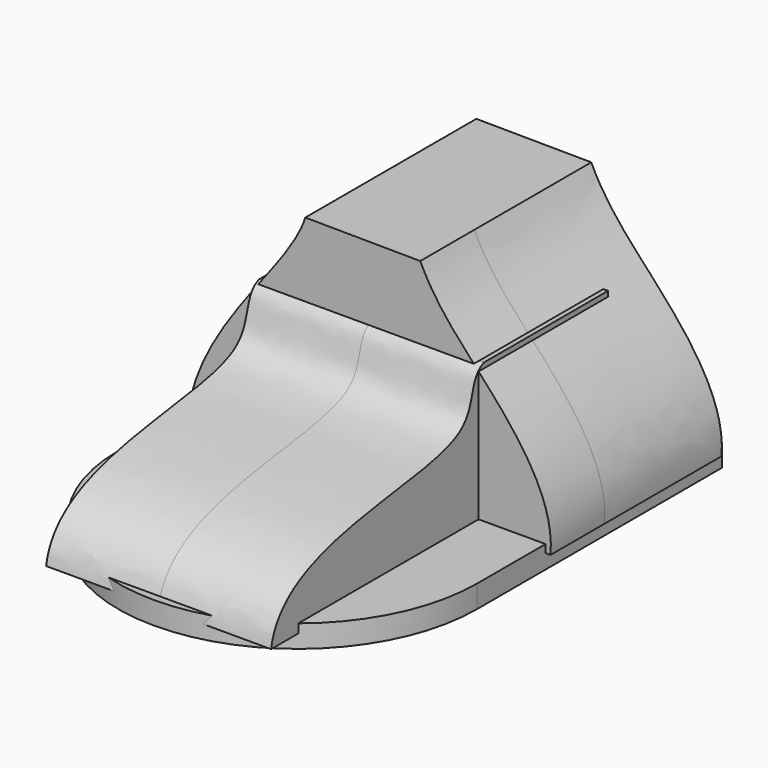
from build123d import *

# Parameters (mm, degrees)
F1_DEPTH = 5.08
F3_DEPTH = 25.4
F5_DEPTH = 33.02
F6_DEPTH = 15.24


with BuildPart() as f1:
    # F0 (on Top) → F1 (new body)
    with BuildSketch(Plane.XY):
        with BuildLine():
            Line((40.5150838196, 34.5398373902), (-40.5150838196, 34.5398373902))
            Line((-40.5150838196, 34.5398373902), (-40.5150838196, -34.5398373902))
            ThreePointArc((-40.5150838196, -34.5398373902), (0, 5.9752464294), (40.5150838196, -34.5398373902))
            Line((40.5150838196, -34.5398373902), (40.5150838196, 34.5398373902))
        make_face()
        with BuildLine():
            Line((40.5150838196, -34.5398373902), (-40.5150838196, -34.5398373902))
            ThreePointArc((-40.5150838196, -34.5398373902), (0, -75.0549212098), (40.5150838196, -34.5398373902))
        make_face()
        with BuildLine():
            ThreePointArc((40.5150838196, -34.5398373902), (0, 5.9752464294), (-40.5150838196, -34.5398373902))
            Line((-40.5150838196, -34.5398373902), (40.5150838196, -34.5398373902))
        make_face()
    extrude(amount=F1_DEPTH)

    # F2 (on Right) → F3 (join, symmetric)
    with BuildSketch(Plane.YZ):
        with BuildLine():
            add(Edge.make_bspline(
                [(-73.7831778799, 3.0678272283), (-70.6378319232, 22.3217949024), (-10.9266128412, 15.6811594859), (-18.1588420727, 33.9181525964), (-13.7011114068, 35.6362367988)],
                knots=[0.0191217668, 0.0191217668, 0.0191217668, 0.0191217668, 0.4018269316, 0.5919587241, 0.5919587241, 0.5919587241, 0.5919587241], degree=3))
            Line((-73.7831778799, 3.0678272283), (35.1335004454, 3.0678272283))
            add(Edge.make_bspline(
                [(30.7071413344, 14.3951700711), (32.9333158099, 10.6251919955), (34.7726278071, 6.8872618686), (35.1335004454, 3.0678272283)],
                knots=[22.7167068517, 22.7167068517, 22.7167068517, 22.7167068517, 35.3870772104, 35.3870772104, 35.3870772104, 35.3870772104], degree=3))
            add(Edge.make_bspline(
                [(-5.1760206943, 35.6362367988), (5.8640768802, 33.5861974627), (22.7244588555, 25.6392571161), (30.7071413344, 14.3951700711)],
                knots=[0.6706583551, 0.6706583551, 0.6706583551, 0.6706583551, 0.9080645562, 0.9080645562, 0.9080645562, 0.9080645562], degree=3))
            Line((-5.1760206943, 35.6362367988), (-13.7011114068, 35.6362367988))
        make_face()
        with BuildLine():
            Line((21.2935607223, 35.6362367988), (-5.1760206943, 35.6362367988))
            add(Edge.make_bspline(
                [(-5.1760206943, 35.6362367988), (5.8640768802, 33.5861974627), (22.7244588555, 25.6392571161), (30.7071413344, 14.3951700711)],
                knots=[0.6706583551, 0.6706583551, 0.6706583551, 0.6706583551, 0.9080645562, 0.9080645562, 0.9080645562, 0.9080645562], degree=3))
            add(Edge.make_bspline(
                [(21.2935607223, 35.6362367988), (21.4809592492, 28.0165751791), (26.7158331461, 21.154363714), (30.7071413344, 14.3951700711)],
                knots=[0, 0, 0, 0, 22.7167068517, 22.7167068517, 22.7167068517, 22.7167068517], degree=3))
        make_face()
    extrude(amount=F3_DEPTH, both=True)

    # F4 (on Front) → F5 (join)
    with BuildSketch(Plane.XZ):
        with BuildLine():
            add(Edge.make_bspline(
                [(-40.2236059308, 4.5178690925), (-38.8947765504, 16.0087846112), (-25.0619320783, 34.8989974455), (-15.2672747918, 47.4251347969), (-13.7114411046, 52.3374542614)],
                knots=[0, 0, 0, 0, 0.5679803837, 1, 1, 1, 1], degree=3))
            Line((-40.2236059308, 4.5178690925), (41.6402526972, 3.2805741205))
            add(Edge.make_bspline(
                [(41.6402526972, 3.2805741205), (42.7852350273, 15.8196156508), (23.6680326777, 36.0266209863), (15.1578339465, 45.9356905739), (12.2352372609, 52.131823212)],
                knots=[0, 0, 0, 0, 0.5715646471, 1, 1, 1, 1], degree=3))
            Line((12.2352372609, 52.131823212), (-13.7114411046, 52.3374542614))
        make_face()
    extrude(amount=-F5_DEPTH)

    # F6 (add): faces of the model
    f6_faces = [f1.faces().sort_by_distance(p)[0] for p in [
        (-30.9475525695, 0, 15.5197286926),
        (-0.4224029854, 0, 43.046373164),
        (31.8842501294, 0, 15.7413854747),
    ]]
    extrude(f6_faces, amount=F6_DEPTH)


solid = f1.part
